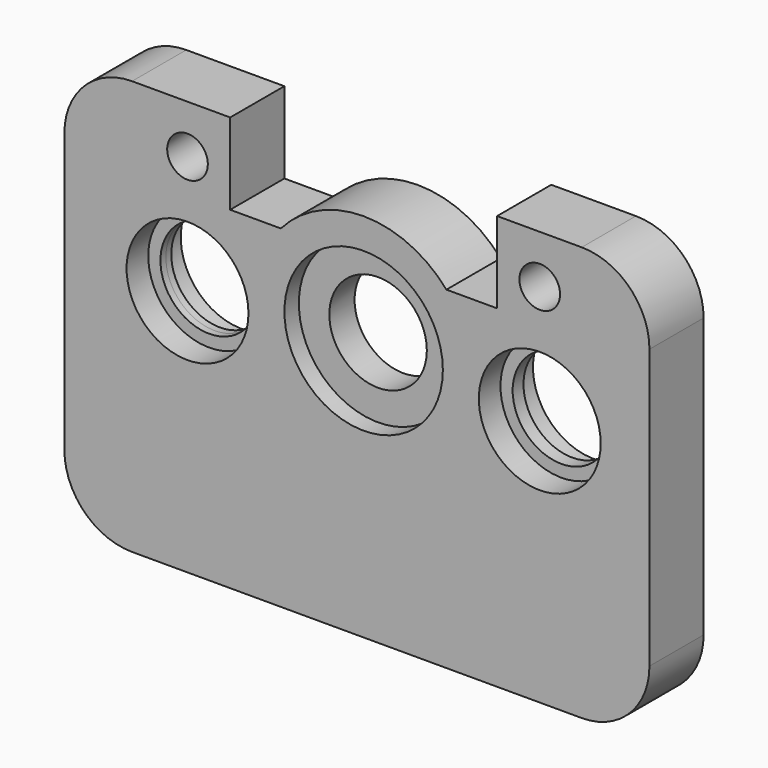
from build123d import *

# Parameters (mm, degrees)
F0_R     = 342.9
F0_R_2   = 114.3
F0_R_3   = 445.77
F1_DEPTH = 190.5
F0_R_4   = 274.32
F2_DEPTH = 88.9
F3_DEPTH = 38.1


with BuildPart() as f1:
    # F0 (on Front) → F1 (new body, symmetric)
    with BuildSketch(Plane.XZ):
        with BuildLine():
            Line((476.25, 0), (0, 0))
            Line((0, 0), (0, -457.2))
            Line((0, -457.2), (-284.9531043775, -457.2))
            ThreePointArc((-284.9531043775, -457.2), (-750.8924007416, -244.7776043701), (-1216.8316971056, -457.2))
            Line((-1216.8316971056, -457.2), (-1501.7848014832, -457.2))
            Line((-1501.7848014832, -457.2), (-1501.7848014832, 0))
            Line((-1501.7848014832, 0), (-2053.59, 0))
            ThreePointArc((-2053.59, 0), (-2322.9976836321, -111.5923163679), (-2434.59, -381))
            Line((-2434.59, -381), (-2434.59, -1950.72))
            ThreePointArc((-2434.59, -1950.72), (-2322.9976836321, -2220.1276836321), (-2053.59, -2331.72))
            Line((-2053.59, -2331.72), (476.25, -2331.72))
            ThreePointArc((476.25, -2331.72), (745.6576836321, -2220.1276836321), (857.25, -1950.72))
            Line((857.25, -1950.72), (857.25, -381))
            ThreePointArc((857.25, -381), (745.6576836321, -111.5923163679), (476.25, 0))
        make_face()
        with Locations((-1741.8148014832, -937.26)):
            Circle(F0_R, mode=Mode.SUBTRACT)
        with Locations((-1741.8148014832, -272.542)):
            Circle(F0_R_2, mode=Mode.SUBTRACT)
        with Locations((-750.8924007416, -861.9976043701)):
            Circle(F0_R_3, mode=Mode.SUBTRACT)
        with Locations((240.03, -937.26)):
            Circle(F0_R, mode=Mode.SUBTRACT)
        with Locations((240.03, -272.542)):
            Circle(F0_R_2, mode=Mode.SUBTRACT)
    extrude(amount=F1_DEPTH, both=True)

    # F0 (on Front) → F2 (join, symmetric)
    with BuildSketch(Plane.XZ):
        with Locations((-750.8924007416, -861.9976043701)):
            Circle(F0_R_3)
        with Locations((-750.8924007416, -861.9976043701)):
            Circle(F0_R_4, mode=Mode.SUBTRACT)
    extrude(amount=F2_DEPTH, both=True)

    # F0 (on Front) → F3 (join, symmetric)
    with BuildSketch(Plane.XZ):
        with Locations((-1741.8148014832, -937.26)):
            Circle(F0_R)
        with Locations((-1741.8148014832, -937.26)):
            Circle(F0_R_4, mode=Mode.SUBTRACT)
        with Locations((240.03, -937.26)):
            Circle(F0_R)
        with Locations((240.03, -937.26)):
            Circle(F0_R_4, mode=Mode.SUBTRACT)
    extrude(amount=F3_DEPTH, both=True)


solid = f1.part
